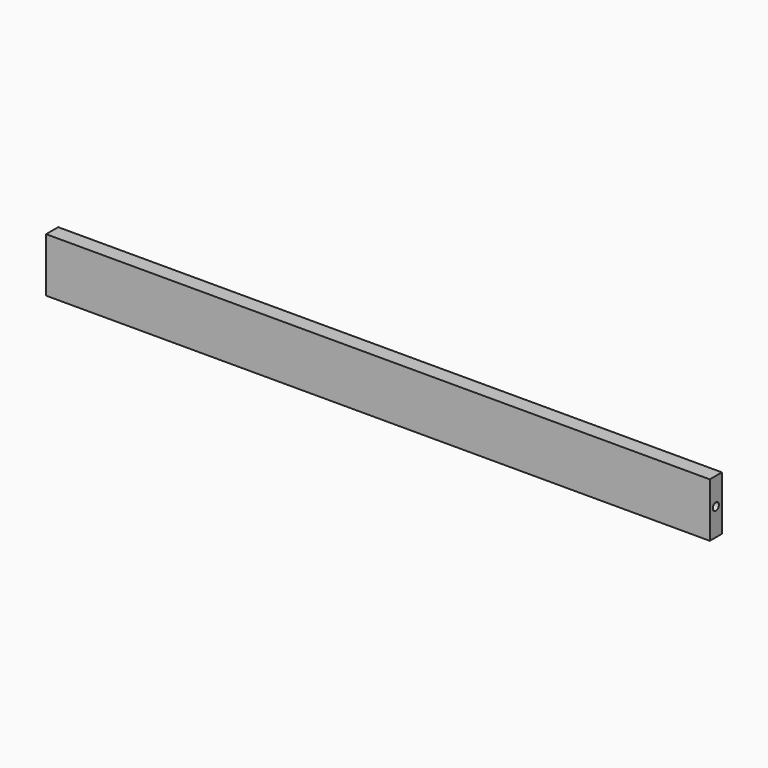
from build123d import *

# Parameters (mm, degrees)
F0_W     = 111.125
F0_H     = 9.0678
F1_DEPTH = 2.54
F2_R     = 0.633777
F3_DEPTH = 131.826


with BuildPart() as f1:
    # F0 (on Front) → F1 (new body)
    with BuildSketch(Plane.XZ):
        with Locations((28.219257, -22.19226)):
            Rectangle(F0_W, F0_H)
    extrude(amount=-F1_DEPTH)

    # F2 (on face) → F3 (cut)
    with BuildSketch(Plane.YZ.offset(83.781757)):
        with Locations((1.27, -22.19226)):
            Circle(F2_R)
    extrude(amount=-F3_DEPTH, mode=Mode.SUBTRACT)


solid = f1.part
